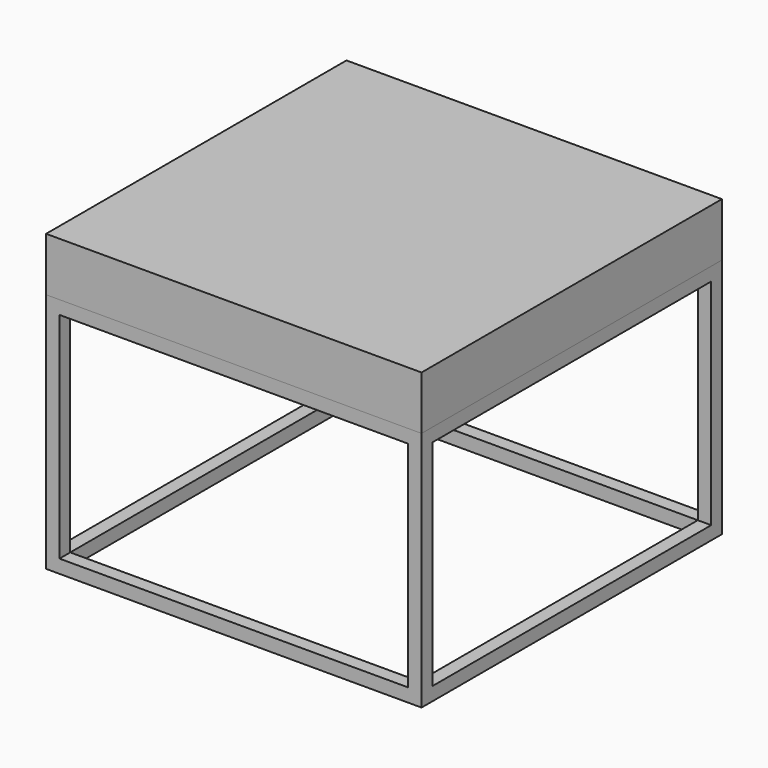
from build123d import *

# Parameters (mm, degrees)
F0_W     = 711.2
F0_H     = 457.2
F0_W_2   = 660.4
F0_H_2   = 406.4
F1_DEPTH = 711.2
F3_DEPTH = 711.2
F4_W     = 660.4
F4_H     = 406.4
F5_DEPTH = 711.201
F6_W     = 660.4
F6_H     = 660.4
F7_DEPTH = 457.2
F8_W     = 711.2
F8_H     = 711.2
F9_DEPTH = 101.6


with BuildPart() as f1:
    # F0 (on Front) → F1 (new body)
    with BuildSketch(Plane.XZ):
        Rectangle(F0_W, F0_H)
        Rectangle(F0_W_2, F0_H_2, mode=Mode.SUBTRACT)
    extrude(amount=F1_DEPTH)


with BuildPart() as f3:
    # F0 (on Front) → F3 (new body)
    with BuildSketch(Plane.XZ):
        Rectangle(F0_W, F0_H)
        Rectangle(F0_W_2, F0_H_2, mode=Mode.SUBTRACT)
    extrude(amount=F3_DEPTH)


with BuildPart() as f5_tool:
    # F4 (on face) → F5 (new body, through all)
    with BuildSketch(Plane.YZ.offset(355.6)):
        with Locations((-355.6, 0)):
            Rectangle(F4_W, F4_H)
    extrude(amount=-F5_DEPTH)


with BuildPart() as f1_1:
    add(f1.part)

    # F5: cut by f5_tool
    add(f5_tool.part, mode=Mode.SUBTRACT)


with BuildPart() as f3_1:
    add(f3.part)

    # F5: cut by f5_tool
    add(f5_tool.part, mode=Mode.SUBTRACT)


with BuildPart() as f7_tool:
    # F6 (on face) → F7 (new body, through all)
    with BuildSketch(Plane(origin=(0, 0, -228.6), x_dir=(1, 0, 0), z_dir=(0, 0, -1))):
        with Locations((0, 355.6)):
            Rectangle(F6_W, F6_H)
    extrude(amount=-F7_DEPTH)


with BuildPart() as f1_2:
    add(f1_1.part)

    # F7: cut by f7_tool
    add(f7_tool.part, mode=Mode.SUBTRACT)


with BuildPart() as f3_2:
    add(f3_1.part)

    # F7: cut by f7_tool
    add(f7_tool.part, mode=Mode.SUBTRACT)


with BuildPart() as f9:
    # F8 (on face) → F9 (new body)
    with BuildSketch(Plane.XY.offset(228.6)):
        with Locations((0, -355.6)):
            Rectangle(F8_W, F8_H)
    extrude(amount=F9_DEPTH)


solid = Compound([f1_2.part, f9.part])
